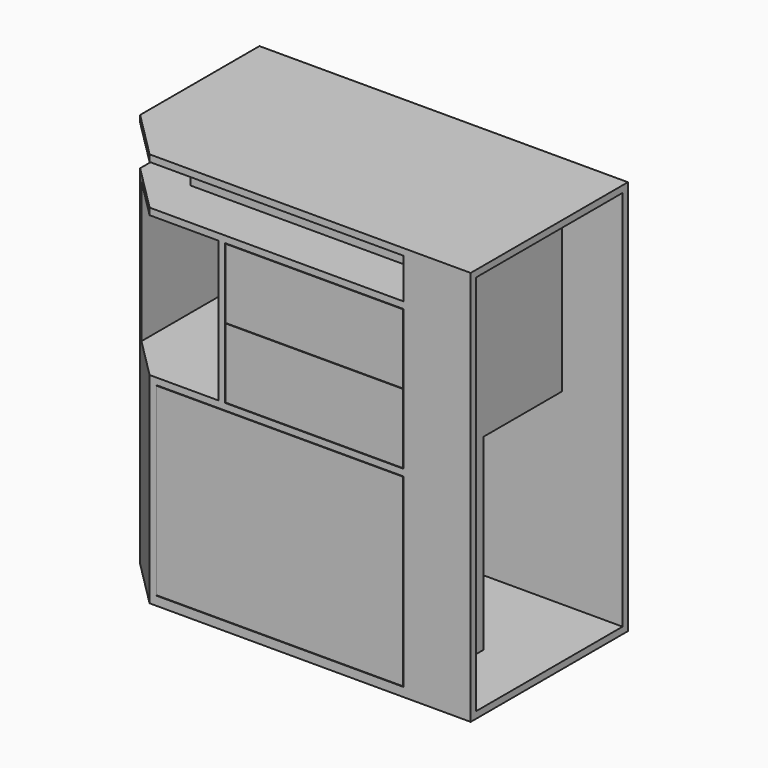
from build123d import *

# Parameters (mm, degrees)
F1_DEPTH  = 885
F2_W      = 220
F2_H      = 420
F3_DEPTH  = 800
F4_W      = 400
F4_H      = 150
F4_W_2    = 153.933982822
F4_H_2    = 315
F4_W_3    = 91.066017178
F5_DEPTH  = 425
F6_W      = 553.933982822
F6_H      = 200
F7_DEPTH  = 175
F9_W      = 685
F9_H      = 300
F10_DEPTH = 90
F11_W     = 400
F11_H     = 15
F11_W_2   = 553.933982822
F12_DEPTH = 15
F13_W     = 398
F13_H     = 156
F14_DEPTH = 15
F13_W_2   = 551.933982822
F13_H_2   = 413
F15_W     = 410
F15_H     = 855
F16_DEPTH = 135


with BuildPart() as f1:
    # F0 (on Top) → F1 (new body)
    with BuildSketch(Plane.XY):
        Polygon((0, -440), (0, 0), (-825, 0), (-825, -333.933982822), (-718.933982822, -440), align=None)
    extrude(amount=F1_DEPTH)

    # F2 (on face) → F3 (cut)
    with BuildSketch(Plane(origin=(-825, 0, 0), x_dir=(0, -1, 0), z_dir=(-1, 0, 0))):
        with Locations((125, 225)):
            Rectangle(F2_W, F2_H)
    extrude(amount=-F3_DEPTH, mode=Mode.SUBTRACT)

    # F4 (on face) → F5 (cut)
    with BuildSketch(Plane.XZ.offset(440)):
        with Locations((-350, 690)):
            Rectangle(F4_W, F4_H)
        with Locations((-350, 525)):
            Rectangle(F4_W, F4_H)
        with Locations((-641.966991411, 607.5)):
            Rectangle(F4_W_2, F4_H_2)
        with Locations((-764.466991411, 607.5)):
            Rectangle(F4_W_3, F4_H_2)
    extrude(amount=-F5_DEPTH, mode=Mode.SUBTRACT)

    # F6 (on face) → F7 (cut)
    with BuildSketch(Plane.XZ.offset(440)):
        with Locations((-426.966991411, 335)):
            Rectangle(F6_W, F6_H)
        with Locations((-426.966991411, 120)):
            Rectangle(F6_W, F6_H)
    extrude(amount=-F7_DEPTH, mode=Mode.SUBTRACT)

    # F9 (on offset) → F10 (cut)
    with BuildSketch(Plane.XY.offset(870)):
        Polygon((-150, -440), (-150, -330), (-715, -330), (-715, -15), (-825, -15), (-825, -440), align=None)
        with Locations((-357.5, -165)):
            Rectangle(F9_W, F9_H)
    extrude(amount=-F10_DEPTH, mode=Mode.SUBTRACT)

    # F11 (on face) → F12 (cut)
    with BuildSketch(Plane.XZ.offset(440)):
        with Locations((-350, 607.5)):
            Rectangle(F11_W, F11_H)
        with Locations((-426.966991411, 227.5)):
            Rectangle(F11_W_2, F11_H)
    extrude(amount=-F12_DEPTH, mode=Mode.SUBTRACT)

    # F15 (on face) → F16 (cut)
    with BuildSketch(Plane.YZ):
        with Locations((-220, 442.5)):
            Rectangle(F15_W, F15_H)
    extrude(amount=-F16_DEPTH, mode=Mode.SUBTRACT)


with BuildPart() as f14:
    # F13 (on face) → F14 (new body)
    with BuildSketch(Plane.XZ.offset(440)):
        with Locations((-350, 686)):
            Rectangle(F13_W, F13_H)
    extrude(amount=-F14_DEPTH)


with BuildPart() as f14b:
    # F13 (on face) → F14, piece 2 (new body)
    with BuildSketch(Plane.XZ.offset(440)):
        with Locations((-350, 529)):
            Rectangle(F13_W, F13_H)
    extrude(amount=-F14_DEPTH)


with BuildPart() as f14c:
    # F13 (on face) → F14, piece 3 (new body)
    with BuildSketch(Plane.XZ.offset(440)):
        with Locations((-426.966991411, 227.5)):
            Rectangle(F13_W_2, F13_H_2)
    extrude(amount=-F14_DEPTH)


solid = Compound([f1.part, f14.part, f14b.part, f14c.part])
